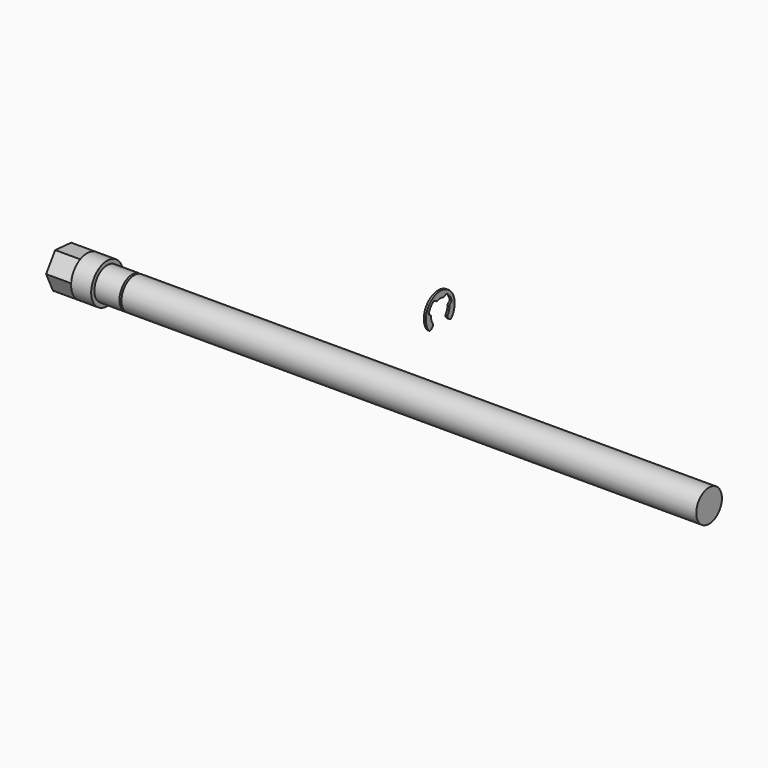
from build123d import *

# Parameters (mm, degrees)
F3_DEPTH = 25
F5_DEPTH = 2
F6_R     = 2
F7_R     = 2


with BuildPart() as f1:
    # F0 (on Front) → F1 (revolve)
    with BuildSketch(Plane.XZ):
        Polygon((0, 0), (310, 0), (310, 16), (-263, 16), (-263, 13), (-265, 13), (-265, 16), (-290, 16), (-290, 20), (-310, 20), (-310, 0), align=None)
    revolve(axis=Axis((24.206266, 0, 0), (-1, 0, 0)))

    # F2 (on face) → F3 (join)
    with BuildSketch(Plane(origin=(-310, 0, 0), x_dir=(0, -1, 0), z_dir=(-1, 0, 0))):
        Polygon((-8.577225, -18.067407), (11.358221, -16.461799), (19.935446, 1.605609), (8.577225, 18.067407), (-11.358221, 16.461799), (-19.935446, -1.605609), align=None)
    extrude(amount=F3_DEPTH)


with BuildPart() as f5:
    # F4 (on Right) → F5 (new body)
    with BuildSketch(Plane.YZ):
        with BuildLine():
            Line((58.131728, 41.868272), (60.429825, 39.570175))
            ThreePointArc((60.429825, 39.570175), (63.627223, 44.355419), (64.75, 50))
            ThreePointArc((64.75, 50), (64.704531, 51.157272), (64.568403, 52.307408))
            Line((64.568403, 52.307408), (61.358416, 51.798996))
            ThreePointArc((61.358416, 51.798996), (60.93715, 46.446305), (58.131728, 41.868272))
        make_face()
        with BuildLine():
            Line((60.429825, 39.570175), (62.727922, 37.272078))
            ThreePointArc((62.727922, 37.272078), (50, 68), (37.272078, 37.272078))
            Line((37.272078, 37.272078), (39.570175, 39.570175))
            ThreePointArc((39.570175, 39.570175), (35.971916, 45.441999), (35.431597, 52.307408))
            ThreePointArc((35.431597, 52.307408), (38.066999, 58.669832), (43.30364, 63.142346))
            ThreePointArc((43.30364, 63.142346), (50, 64.75), (56.69636, 63.142346))
            ThreePointArc((56.69636, 63.142346), (61.933001, 58.669832), (64.568403, 52.307408))
            ThreePointArc((64.568403, 52.307408), (64.704531, 51.157272), (64.75, 50))
            ThreePointArc((64.75, 50), (63.627223, 44.355419), (60.429825, 39.570175))
        make_face()
        with BuildLine():
            ThreePointArc((56.69636, 63.142346), (50, 64.75), (43.30364, 63.142346))
            Line((43.30364, 63.142346), (44.779109, 60.246575))
            ThreePointArc((44.779109, 60.246575), (50, 61.5), (55.220891, 60.246575))
            Line((55.220891, 60.246575), (56.69636, 63.142346))
        make_face()
        with BuildLine():
            ThreePointArc((35.431597, 52.307408), (35.971916, 45.441999), (39.570175, 39.570175))
            Line((39.570175, 39.570175), (41.868272, 41.868272))
            ThreePointArc((41.868272, 41.868272), (39.06285, 46.446305), (38.641584, 51.798996))
            Line((38.641584, 51.798996), (35.431597, 52.307408))
        make_face()
    extrude(amount=F5_DEPTH)

    # F6
    f6_edges = [f5.edges().sort_by_distance(p)[0] for p in [
        (1, 55.220891, 60.246575),
        (1, 44.779109, 60.246575),
        (1, 62.727922, 37.272078),
        (1, 58.131728, 41.868272),
        (1, 41.868272, 41.868272),
        (1, 37.272078, 37.272078),
        (1, 61.358416, 51.798996),
        (1, 38.641584, 51.798996),
    ]]
    fillet(f6_edges, radius=F6_R)

    # F7
    f7_edges = [f5.edges().sort_by_distance(p)[0] for p in [
        (1, 56.69636, 63.142346),
        (1, 43.30364, 63.142346),
        (1, 64.568403, 52.307408),
        (1, 35.431597, 52.307408),
    ]]
    fillet(f7_edges, radius=F7_R)


solid = Compound([f1.part, f5.part])
